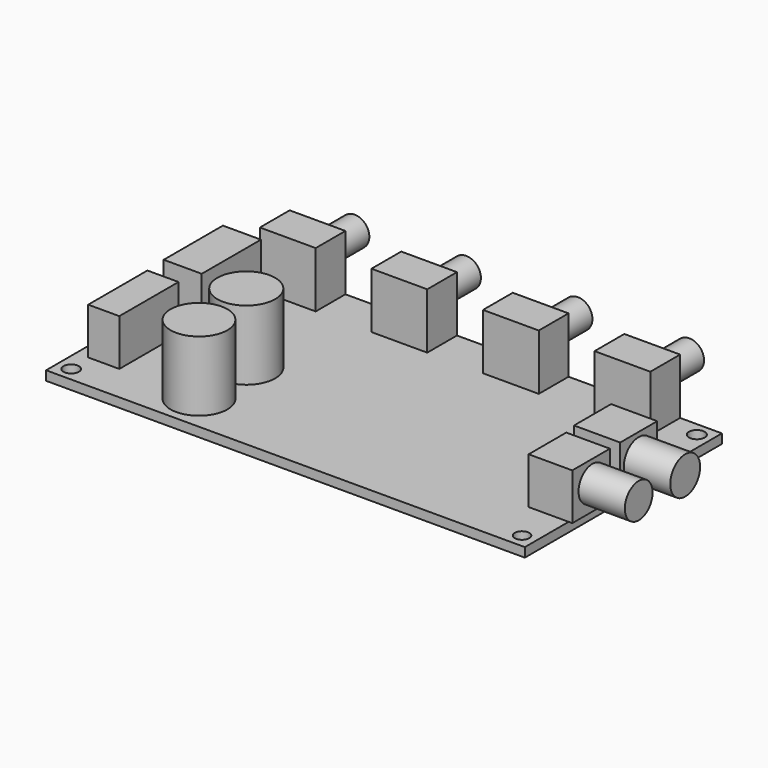
from build123d import *

# Parameters (mm, degrees)
F0_R      = 1.657861898
F0_R_2    = 1.5637435582
F0_R_3    = 1.5
F0_R_4    = 1.6928931088
F1_DEPTH  = 2
F2_W      = 12
F2_H      = 12
F3_DEPTH  = 8
F4_R      = 3.1469960725
F5_DEPTH  = 10
F6_W      = 8.1816576421
F6_H      = 15.9170441329
F6_W_2    = 6.694085896
F6_H_2    = 15.9170404077
F6_W_3    = 9.9330767989
F6_H_3    = 9.9667422473
F6_W_4    = 9.3853771687
F6_H_4    = 10.1155005395
F7_DEPTH  = 10
F8_R      = 6.2283008091
F8_R_2    = 6.1225151743
F9_DEPTH  = 15
F10_R     = 4.0154432522
F10_R_2   = 3.7333835988
F11_DEPTH = 10


with BuildPart() as f1:
    # F0 (on Top) → F1 (new body)
    with BuildSketch(Plane.XY):
        Polygon((-70.0199790299, 79.3929218054), (-70.0199790299, 26.3929218054), (32.9800209701, 26.3929218054), (32.9800209701, 79.3929218054), (17.9800209701, 79.3929218054), align=None)
        with Locations((-67.0199790299, 29.3929218054)):
            Circle(F0_R, mode=Mode.SUBTRACT)
        with Locations((29.9800209701, 29.3929218054)):
            Circle(F0_R_2, mode=Mode.SUBTRACT)
        with Locations((-67.0199790299, 76.3929218054)):
            Circle(F0_R_3, mode=Mode.SUBTRACT)
        with Locations((29.9800209701, 76.3929218054)):
            Circle(F0_R_4, mode=Mode.SUBTRACT)
    extrude(amount=F1_DEPTH)

    # F2 (on face) → F3 (join)
    with BuildSketch(Plane(origin=(0, 79.3929218054, 0), x_dir=(-1, 0, 0), z_dir=(0, 1, 0))):
        with Locations((54.0199790299, 8)):
            Rectangle(F2_W, F2_H)
        with Locations((30.0199790299, 8)):
            Rectangle(F2_W, F2_H)
        with Locations((6.0199790299, 8)):
            Rectangle(F2_W, F2_H)
        with Locations((-17.9800209701, 8)):
            Rectangle(F2_W, F2_H)
    extrude(amount=-F3_DEPTH)

    # F4 (on face) → F5 (join)
    with BuildSketch(Plane(origin=(0, 79.3929218054, 0), x_dir=(-1, 0, 0), z_dir=(0, 1, 0))):
        with Locations((-17.9800209701, 7.9124979675)):
            Circle(F4_R)
        with Locations((6.0199790299, 7.9124979675)):
            Circle(F4_R)
        with Locations((30.0199790299, 7.9124979675)):
            Circle(F4_R)
        with Locations((54.0199790299, 7.9124979675)):
            Circle(F4_R)
    extrude(amount=F5_DEPTH)

    # F6 (on face) → F7 (join)
    with BuildSketch(Plane.XY.offset(2)):
        with Locations((-63.6116955429, 63.0893874913)):
            Rectangle(F6_W, F6_H)
        with Locations((-64.0579722822, 42.412109673)):
            Rectangle(F6_W_2, F6_H_2)
        with Locations((28.7498049438, 56.0977887362)):
            Rectangle(F6_W_3, F6_H_3)
        with Locations((29.0709845722, 43.2302746922)):
            Rectangle(F6_W_4, F6_H_4)
    extrude(amount=F7_DEPTH)

    # F8 (on face) → F9 (join)
    with BuildSketch(Plane.XY.offset(2)):
        with Locations((-44.3476177752, 48.1392666698)):
            Circle(F8_R)
        with Locations((-43.4550717473, 34.304831177)):
            Circle(F8_R_2)
    extrude(amount=F9_DEPTH)

    # F10 (on face) → F11 (join)
    with BuildSketch(Plane.YZ.offset(33.7163433433)):
        with Locations((56.0977887362, 7)):
            Circle(F10_R)
        with Locations((43.5904636979, 7.3108654469)):
            Circle(F10_R_2)
    extrude(amount=F11_DEPTH)


solid = f1.part
